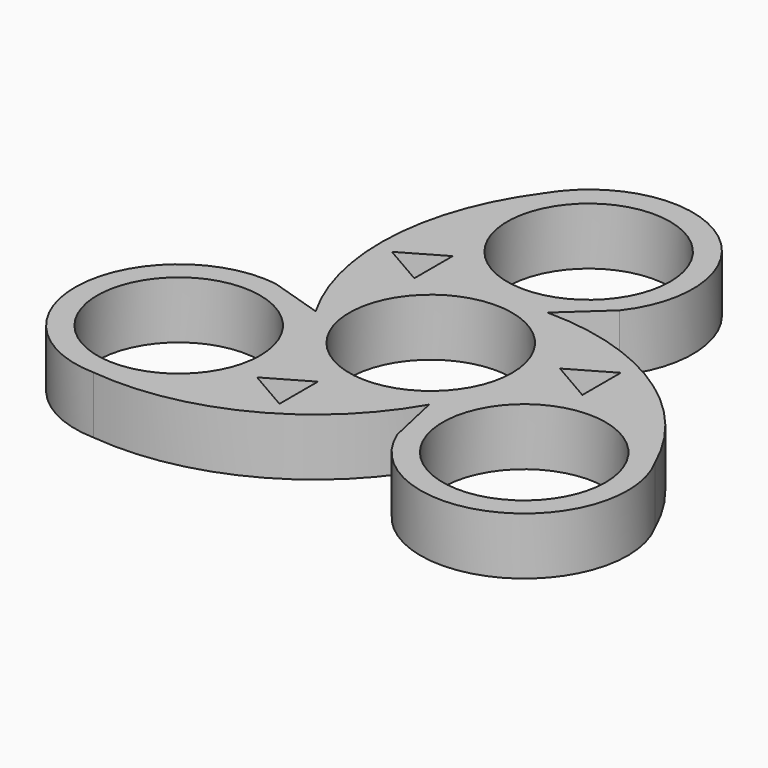
from build123d import *

# Parameters (mm, degrees)
F0_R     = 11.0109
F1_DEPTH = 7.747


with BuildPart() as f1:
    # F0 (on Top) → F1 (new body)
    with BuildSketch(Plane.XY):
        with BuildLine():
            Line((5.30555, 13.096203), (10.931762, 18.253563))
            ThreePointArc((10.931762, 18.253563), (7.899724, 38.408908), (-12.041939, 34.194499))
            ThreePointArc((-12.041939, 34.194499), (-18.394659, 16.410973), (-13.994419, -1.953361))
            Line((-13.994419, -1.953361), (-21.27393, 0.340402))
            ThreePointArc((-21.27393, 0.340402), (-37.212952, -12.363092), (-23.592335, -27.525875))
            ThreePointArc((-23.592335, -27.525875), (-5.01499, -24.135728), (8.68887, -11.142842))
            Line((8.68887, -11.142842), (10.342168, -18.593965))
            ThreePointArc((10.342168, -18.593965), (29.313228, -26.045816), (35.634275, -6.668624))
            ThreePointArc((35.634275, -6.668624), (23.409649, 7.724756), (5.30555, 13.096203))
        make_face()
        with Locations((-23.255562, -13.524312)):
            Circle(F0_R, mode=Mode.SUBTRACT)
        Polygon((-3.755629, -14.376059), (-3.755629, -20.868891), (-9.378587, -17.622475), align=None, mode=Mode.SUBTRACT)
        Circle(F0_R, mode=Mode.SUBTRACT)
        with Locations((23.340179, -13.377751)):
            Circle(F0_R, mode=Mode.SUBTRACT)
        Polygon((14.327847, 3.935559), (19.950804, 7.181975), (19.950804, 0.689143), align=None, mode=Mode.SUBTRACT)
        Polygon((-16.195175, 13.686916), (-10.572217, 16.933332), (-10.572217, 10.4405), align=None, mode=Mode.SUBTRACT)
        with Locations((0, 26.692882)):
            Circle(F0_R, mode=Mode.SUBTRACT)
    extrude(amount=F1_DEPTH)


solid = f1.part
